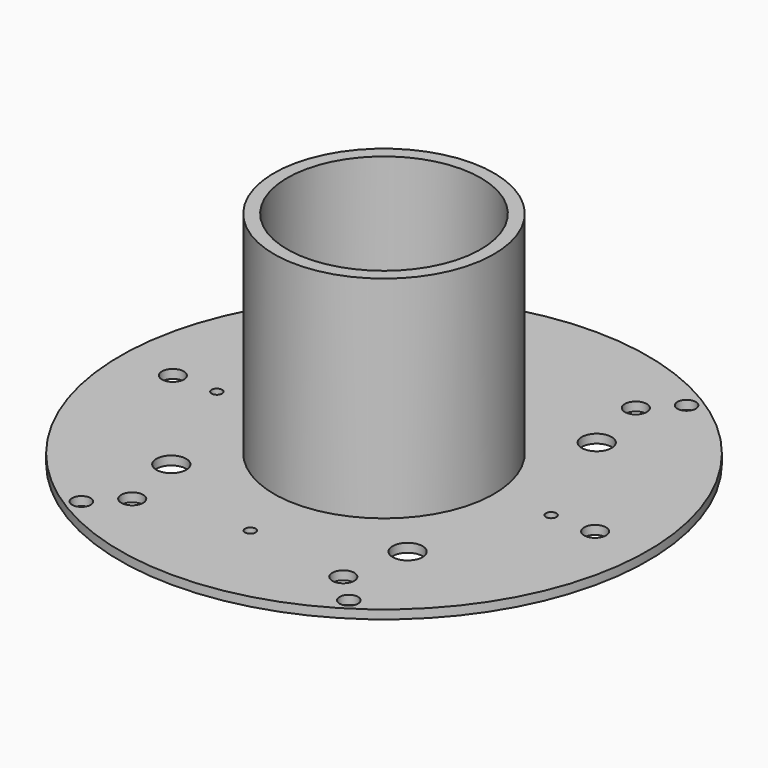
from build123d import *

# Parameters (mm, degrees)
F0_W     = 7.5
F0_H     = 120
F2_R     = 6.25
F2_R_2   = 3
F2_R_3   = 8.5
F2_R_4   = 5.25
F3_DEPTH = 5.001


with BuildPart() as f1:
    # F0 (on Right) → F1 (revolve)
    with BuildSketch(Plane.YZ):
        Polygon((55, 5), (55, 0), (150, 0), (150, 5), (62.5, 5), align=None)
        with Locations((58.75, 65)):
            Rectangle(F0_W, F0_H)
    revolve(axis=Axis((0, 0, 87.986202), (0, 0, 1)))

    # F2 (on face) → F3 (cut, through all)
    with BuildSketch(Plane.XY.offset(5)):
        with Locations((-120, 0)):
            Circle(F2_R)
        with Locations((-60, -103.923048)):
            Circle(F2_R)
        with Locations((60, -103.923048)):
            Circle(F2_R)
        with Locations((120, 0)):
            Circle(F2_R)
        with Locations((60, 103.923048)):
            Circle(F2_R)
        with Locations((-60, 103.923048)):
            Circle(F2_R)
        with Locations((0, 95)):
            Circle(F2_R_2)
        with Locations((-95, 0)):
            Circle(F2_R_2)
        with Locations((0, -95)):
            Circle(F2_R_2)
        with Locations((95, 0)):
            Circle(F2_R_2)
        with Locations((-67.175144, 67.175144)):
            Circle(F2_R_3)
        with Locations((-67.175144, -67.175144)):
            Circle(F2_R_3)
        with Locations((67.175144, -67.175144)):
            Circle(F2_R_3)
        with Locations((67.175144, 67.175144)):
            Circle(F2_R_3)
        with Locations((-76, 120)):
            Circle(F2_R_4)
        with Locations((-76, -120)):
            Circle(F2_R_4)
        with Locations((76, 120)):
            Circle(F2_R_4)
        with Locations((76, -120)):
            Circle(F2_R_4)
    extrude(amount=-F3_DEPTH, mode=Mode.SUBTRACT)


solid = f1.part
